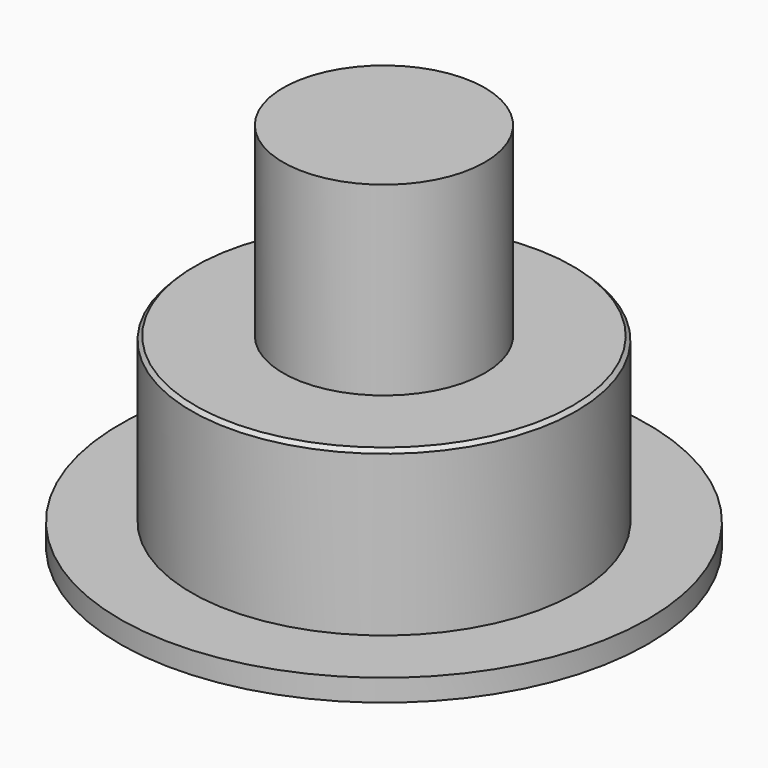
from build123d import *

# Parameters (mm, degrees)
F0_R     = 36.130813
F1_DEPTH = 3
F2_R     = 26.349485
F3_DEPTH = 25.4
F4_R     = 13.809058
F5_DEPTH = 25.4
F6_SIZE  = 0.5


with BuildPart() as f1:
    # F0 (on Top) → F1 (new body)
    with BuildSketch(Plane.XY):
        Circle(F0_R)
    extrude(amount=F1_DEPTH)

    # F2 (on Top) → F3 (join)
    with BuildSketch(Plane.XY):
        Circle(F2_R)
    extrude(amount=F3_DEPTH)

    # F4 (on face) → F5 (join)
    with BuildSketch(Plane.XY.offset(25.4)):
        Circle(F4_R)
    extrude(amount=F5_DEPTH)

    # F6
    f6_edges = [f1.edges().sort_by_distance(p)[0] for p in [
        (-26.349485, 0, 25.4),
    ]]
    chamfer(f6_edges, length=F6_SIZE)


solid = f1.part
